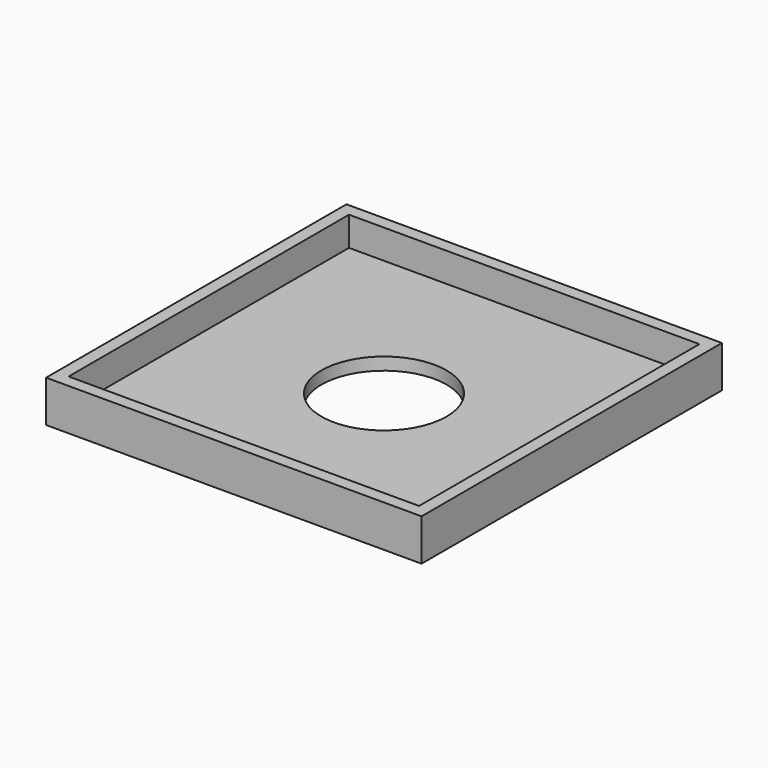
from build123d import *

# Parameters (mm, degrees)
F0_W     = 114.3
F0_H     = 114.3
F0_W_2   = 106.68
F0_H_2   = 106.68
F1_DEPTH = 3.81
F2_DEPTH = 12.7
F4_R     = 19.05
F5_DEPTH = 6.858


with BuildPart() as f1:
    # F0 (on Top) → F1 (new body)
    with BuildSketch(Plane.XY):
        Rectangle(F0_W, F0_H)
        Rectangle(F0_W_2, F0_H_2, mode=Mode.SUBTRACT)
        Rectangle(F0_W_2, F0_H_2)
    extrude(amount=F1_DEPTH)

    # F0 (on Top) → F2 (join)
    with BuildSketch(Plane.XY):
        Rectangle(F0_W, F0_H)
        Rectangle(F0_W_2, F0_H_2, mode=Mode.SUBTRACT)
    extrude(amount=F2_DEPTH)

    # F4 (on face) → F5 (cut)
    with BuildSketch(Plane.XY.offset(3.81)):
        Circle(F4_R)
    extrude(amount=-F5_DEPTH, mode=Mode.SUBTRACT)


solid = f1.part
